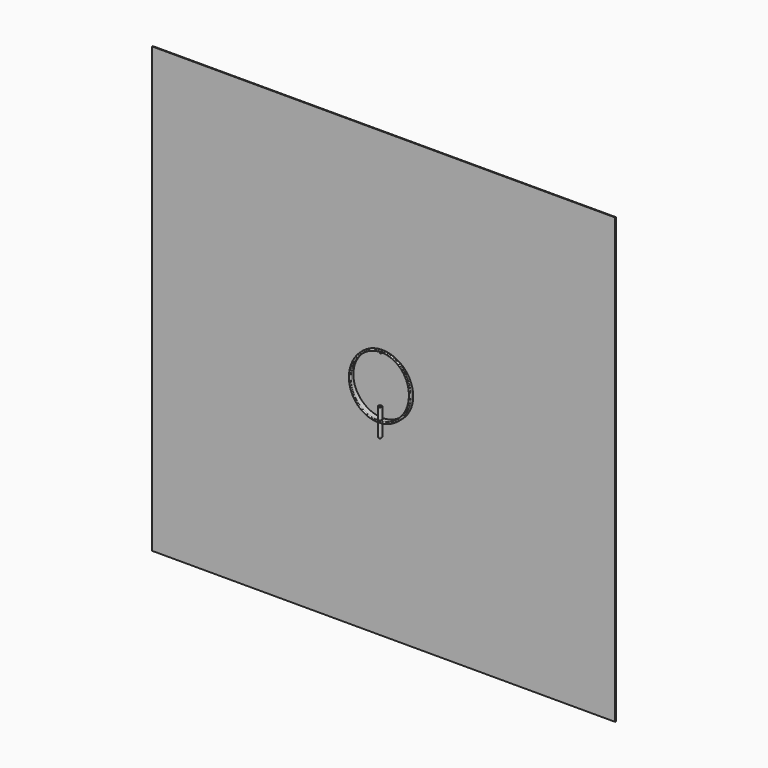
from build123d import *

# Parameters (mm, degrees)
F0_R      = 38.4587700677
F0_R_2    = 36.2292517746
F1_DEPTH  = 8.4
F3_DEPTH  = 53
F4_R      = 1
F5_R      = 2.3
F8_DEPTH  = 45.9
F9_R      = 0.3
F7_R      = 2.25
F10_DEPTH = 35
F11_R     = 2.2
F12_T     = -0.1
F15_R     = 0.3473861119
F17_R     = 0.3
F18_W     = 577.8939723969
F18_H     = 554.1460514069
F19_DEPTH = 1


with BuildPart() as f1:
    # F0 (on Front) → F1 (new body)
    with BuildSketch(Plane.XZ):
        Circle(F0_R)
        Circle(F0_R_2, mode=Mode.SUBTRACT)
    extrude(amount=F1_DEPTH)

    # F2 (on Right) → F3 (cut, symmetric)
    with BuildSketch(Plane.YZ):
        Polygon((-4.2386792843, 45.13872836), (-21.9618818692, 45.13872836), (-24.7208631369, -40.337885752), (-8, -48.3348188198), (-2, 39.2679650957), align=None)
    extrude(amount=F3_DEPTH, both=True, mode=Mode.SUBTRACT)

    # F4
    f4_edges = [f1.edges().sort_by_distance(p)[0] for p in [
        (-36.229252, -4.689501, 0),
        (-38.45877, -4.689501, 0),
    ]]
    fillet(f4_edges, radius=F4_R)

    # F5 (on Top) → F8 (cut)
    with BuildSketch(Plane.XY):
        with Locations((0, -3.6)):
            Circle(F5_R)
    extrude(amount=-F8_DEPTH, mode=Mode.SUBTRACT)

    # F9
    f9_edges = [f1.edges().sort_by_distance(p)[0] for p in [
        (-2.3, -3.6, -36.156171),
        (-2.3, -3.6, -38.389934),
    ]]
    fillet(f9_edges, radius=F9_R)


with BuildPart() as f10:
    # F7 (on offset) → F10 (new body)
    with BuildSketch(Plane.XY.offset(-22)):
        with Locations((0, -3.6)):
            Circle(F7_R)
    extrude(amount=-F10_DEPTH)

    # F11
    f11_edges = [f10.edges().sort_by_distance(p)[0] for p in [
        (-2.25, -3.6, -57),
    ]]
    fillet(f11_edges, radius=F11_R)

    # F12
    f12_openings = [f10.faces().sort_by_distance(p)[0] for p in [
        (0, -3.6, -22),
    ]]
    offset(amount=F12_T, openings=f12_openings)


with BuildPart() as f16:
    # F16: sweep along a path in F13
    with BuildLine(Plane.YZ) as f16_path:
        Line((2, 35.834475097), (-1.8889532082, 35.834475097))
        Line((-1.8889532082, 35.834475097), (-3.617331461, 36.569048974))
    # F15 (on offset) → F16 (sweep)
    with BuildSketch(Plane.XZ.offset(-2)):
        with Locations((0, 35.8368568122)):
            Circle(F15_R)
    sweep(path=f16_path.line, transition=Transition.RIGHT)

    # F17
    f17_edges = [f16.edges().sort_by_distance(p)[0] for p in [
        (-0.347386, -3.6164, 36.571241),
    ]]
    fillet(f17_edges, radius=F17_R)

    # F18 (on offset) → F19 (join)
    with BuildSketch(Plane.XZ.offset(-2)):
        Rectangle(F18_W, F18_H)
    extrude(amount=-F19_DEPTH)


solid = Compound([f1.part, f10.part, f16.part])
